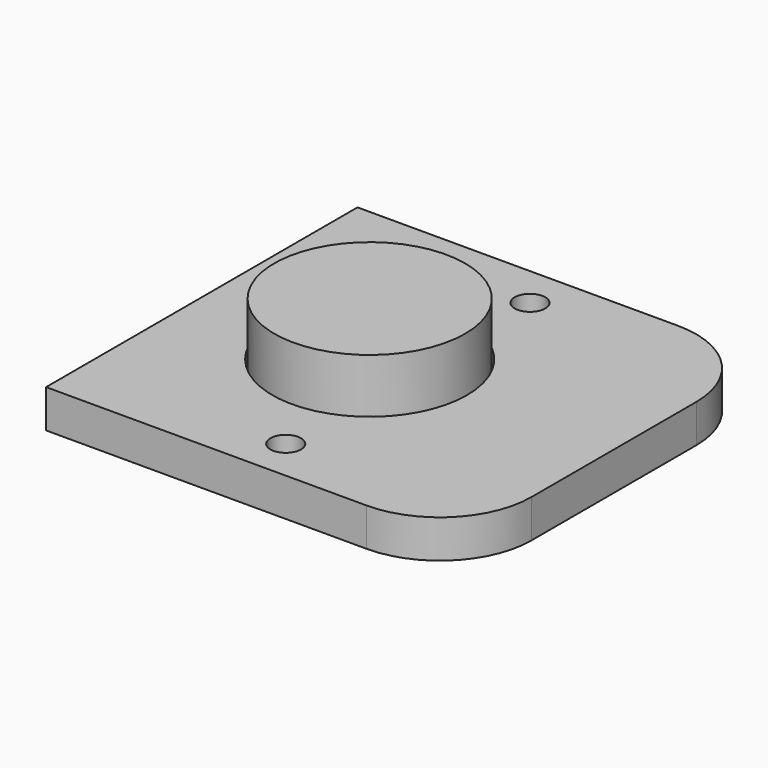
from build123d import *

# Parameters (mm, degrees)
F0_W     = 54
F0_H     = 51
F0_R     = 2
F0_R_2   = 12.75
F1_DEPTH = 5
F2_R     = 12
F3_R     = 12.5
F4_DEPTH = 12


with BuildPart() as f1:
    # F0 (on Top) → F1 (new body)
    with BuildSketch(Plane.XY):
        Rectangle(F0_W, F0_H)
        with Locations((0, -20)):
            Circle(F0_R, mode=Mode.SUBTRACT)
        with Locations((-5, 0)):
            Circle(F0_R_2, mode=Mode.SUBTRACT)
        with Locations((0, 20)):
            Circle(F0_R, mode=Mode.SUBTRACT)
    extrude(amount=F1_DEPTH)

    # F2
    f2_edges = [f1.edges().sort_by_distance(p)[0] for p in [
        (27, -25.5, 2.5),
        (27, 25.5, 2.5),
    ]]
    fillet(f2_edges, radius=F2_R)


with BuildPart() as f4:
    # F3 (on Top) → F4 (new body)
    with BuildSketch(Plane.XY):
        with Locations((-5, 0)):
            Circle(F3_R)
    extrude(amount=F4_DEPTH)


solid = Compound([f1.part, f4.part])
